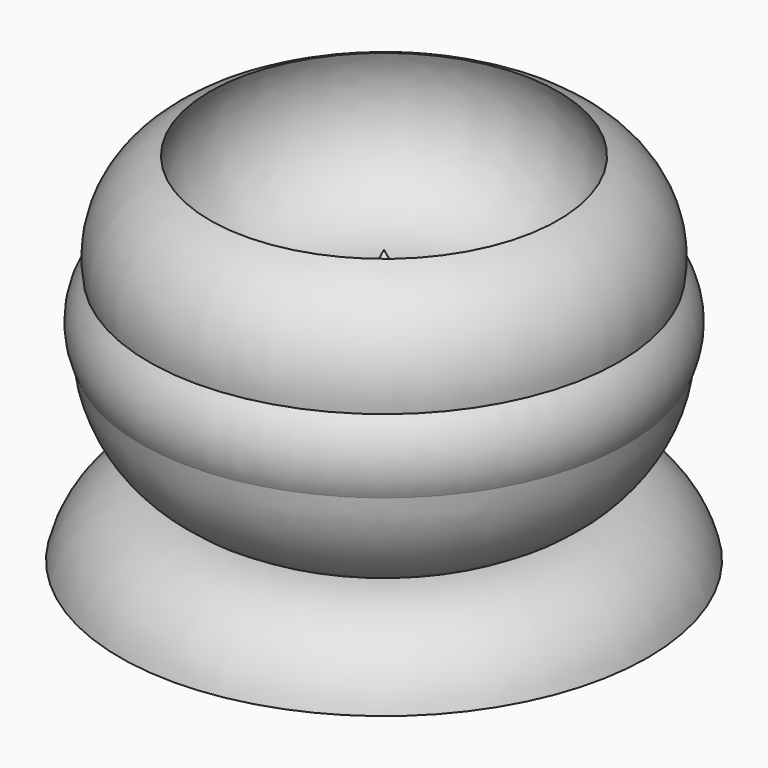
from build123d import *

# Parameters (mm, degrees)
F0_R   = 2.83508
F0_R_2 = 4.729323
F0_R_3 = 3.266177
F0_R_4 = 10.256623
F0_R_5 = 2.955296
F0_R_6 = 2.47401


with BuildPart() as f1:
    # F0 (on Front) → F1 (revolve)
    with BuildSketch(Plane.XZ):
        with BuildLine():
            Line((0, 0), (0, 48.414733))
            ThreePointArc((0, 48.414733), (-23.045077, 39.621284), (-30.85679, 63.017383))
            ThreePointArc((-30.85679, 63.017383), (-39.603693, 55.662546), (-41.634936, 44.41639))
            ThreePointArc((-41.634936, 44.41639), (-44.154276, 38.450552), (-43.025661, 32.073677))
            ThreePointArc((-43.025661, 32.073677), (-39.09625, 20.916295), (-30.335264, 12.968179))
            ThreePointArc((-30.335264, 12.968179), (-40.797045, 9.335166), (-46.755428, 0))
            Line((-46.755428, 0), (0, 0))
        make_face()
        with Locations((-32.802017, 5.302152)):
            Circle(F0_R, mode=Mode.SUBTRACT)
        with BuildLine():
            ThreePointArc((-26.580764, 12.20531), (-26.513548, 12.359836), (-26.44495, 12.513754))
            ThreePointArc((-26.44495, 12.513754), (-26.347497, 12.490366), (-26.250185, 12.4664))
            ThreePointArc((-26.250185, 12.4664), (-26.416041, 12.336573), (-26.580764, 12.20531))
        make_face(mode=Mode.SUBTRACT)
        with Locations((-32.802017, 30.682947)):
            Circle(F0_R_2, mode=Mode.SUBTRACT)
        with Locations((-12.603478, 5.302152)):
            Circle(F0_R_3, mode=Mode.SUBTRACT)
        with Locations((-13.994205, 21.817055)):
            Circle(F0_R_4, mode=Mode.SUBTRACT)
        with Locations((-34.333613, 41.808777)):
            Circle(F0_R_5, mode=Mode.SUBTRACT)
        with Locations((-3.737583, 37.171427)):
            Circle(F0_R_6, mode=Mode.SUBTRACT)
    revolve(axis=Axis((0, 0, 24.207367), (0, 0, -1)))


solid = f1.part
